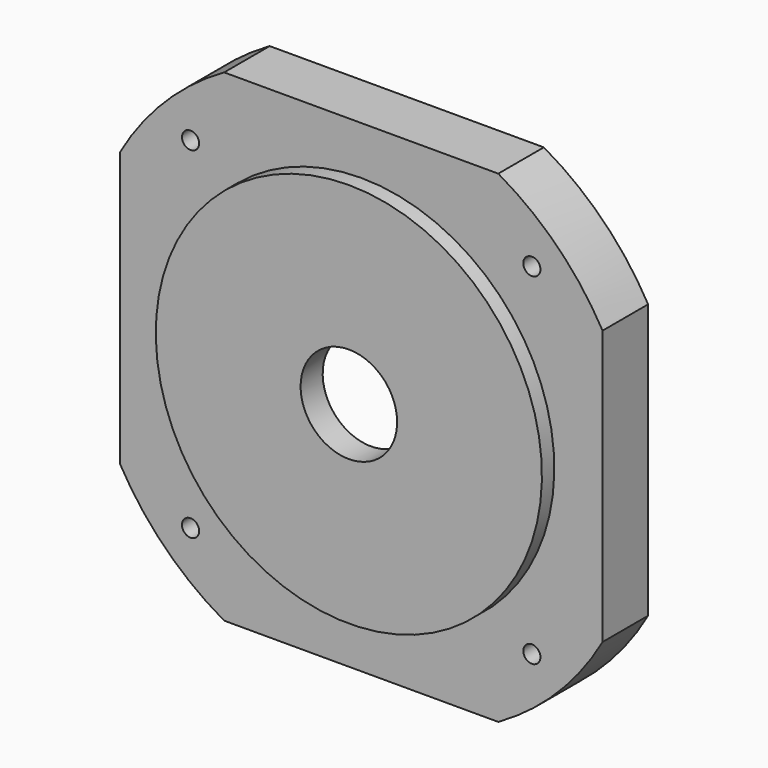
from build123d import *

# Parameters (mm, degrees)
F2_W     = 63.5
F2_H     = 63.5
F3_DEPTH = 9.526
F5_D     = 2.2606


with BuildPart() as f1:
    # F0 (on Right) → F1 (revolve)
    with BuildSketch(Plane.YZ):
        Polygon((0, 25.4), (0, 6.35), (3.6322, 6.35), (3.6322, 26.9875), (7.9248, 26.9875), (7.9248, 30.1625), (9.525, 30.1625), (9.525, 36.5125), (2.032, 36.5125), (2.032, 25.4), align=None)
    revolve(axis=Axis((0, 1.8161, 0), (0, -1, 0)))

    # F2 (on Front) → F3 (intersect, through all)
    with BuildSketch(Plane.XZ):
        Rectangle(F2_W, F2_H)
    extrude(amount=-F3_DEPTH, mode=Mode.INTERSECT)

    # F5 (through all)
    with Locations(Plane(origin=(0, 9.525, 0), x_dir=(-1, 0, 0), z_dir=(0, 1, 0))):
        with Locations((-22.4506403027, 22.4506403027), (22.4506403027, 22.4506403027), (22.4506403027, -22.4506403027), (-22.4506403027, -22.4506403027)):
            Hole(F5_D / 2)


solid = f1.part
